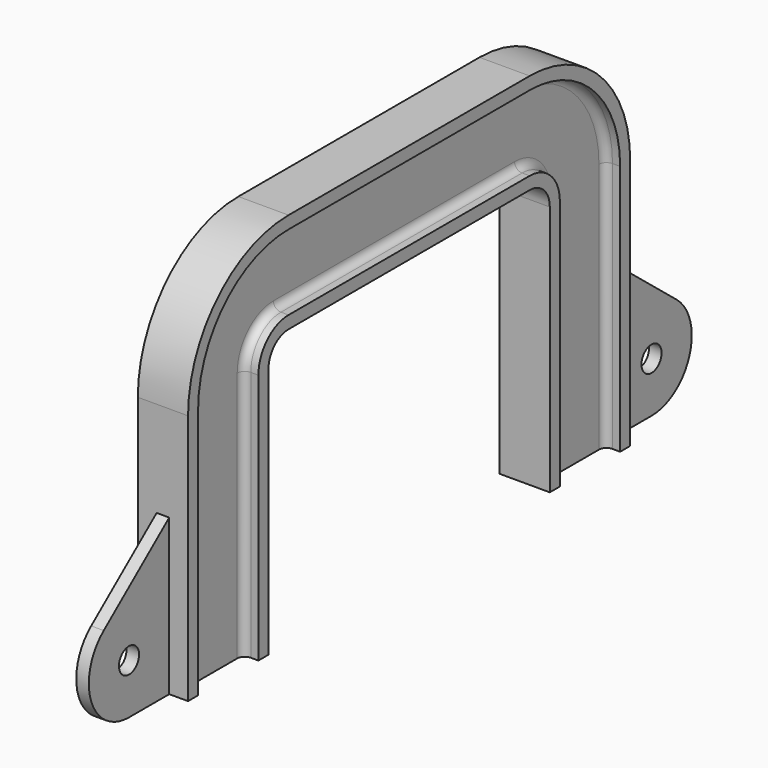
from build123d import *

# Parameters (mm, degrees)
F4_R     = 5
F5_DEPTH = 2.5


with BuildPart() as f2:
    # F2: sweep along a path in F1
    with BuildLine(Plane.YZ) as f2_path:
        Line((0, 0), (60, 0))
        ThreePointArc((60, 0), (67.0710678119, -2.9289321881), (70, -10))
        Line((70, -10), (70, -110))
    # F0 (on Front) → F2 (sweep)
    with BuildSketch(Plane.XZ):
        with BuildLine():
            Line((-10, 5), (-10, 0))
            Line((-10, 0), (10, 0))
            Line((10, 0), (10, 5))
            Line((10, 5), (6.9661123479, 5))
            ThreePointArc((6.9661123479, 5), (4.8447920043, 5.8786796564), (3.9661123479, 8))
            Line((3.9661123479, 8), (3.9661123479, 32))
            ThreePointArc((3.9661123479, 32), (4.8447920043, 34.1213203436), (6.9661123479, 35))
            Line((6.9661123479, 35), (10, 35))
            Line((10, 35), (10, 40))
            Line((10, 40), (-10, 40))
            Line((-10, 40), (-10, 35))
            Line((-10, 35), (-6.9661123479, 35))
            ThreePointArc((-6.9661123479, 35), (-4.8447920043, 34.1213203436), (-3.9661123479, 32))
            Line((-3.9661123479, 32), (-3.9661123479, 8))
            ThreePointArc((-3.9661123479, 8), (-4.8447920043, 5.8786796564), (-6.9661123479, 5))
            Line((-6.9661123479, 5), (-10, 5))
        make_face()
    sweep(path=f2_path.line)

    # F3: F2 across plane


with BuildPart() as f2_1:
    add(f2.part)
    add(f2.part.mirror(Plane.XZ))

    # F4 (on Right) → F5 (join, symmetric)
    with BuildSketch(Plane.YZ):
        with BuildLine():
            Line((100, -40), (100, -110))
            Line((100, -110), (130, -110))
            ThreePointArc((130, -110), (148.8541892248, -96.6722971064), (142.5800752207, -74.4519548676))
            Line((142.5800752207, -74.4519548676), (100, -40))
        make_face()
        with Locations((130, -90)):
            Circle(F4_R, mode=Mode.SUBTRACT)
    extrude(amount=F5_DEPTH, both=True)

    # F6: F2 across plane


with BuildPart() as f2_2:
    add(f2_1.part)
    add(f2_1.part.mirror(Plane.XZ))


solid = f2_2.part
